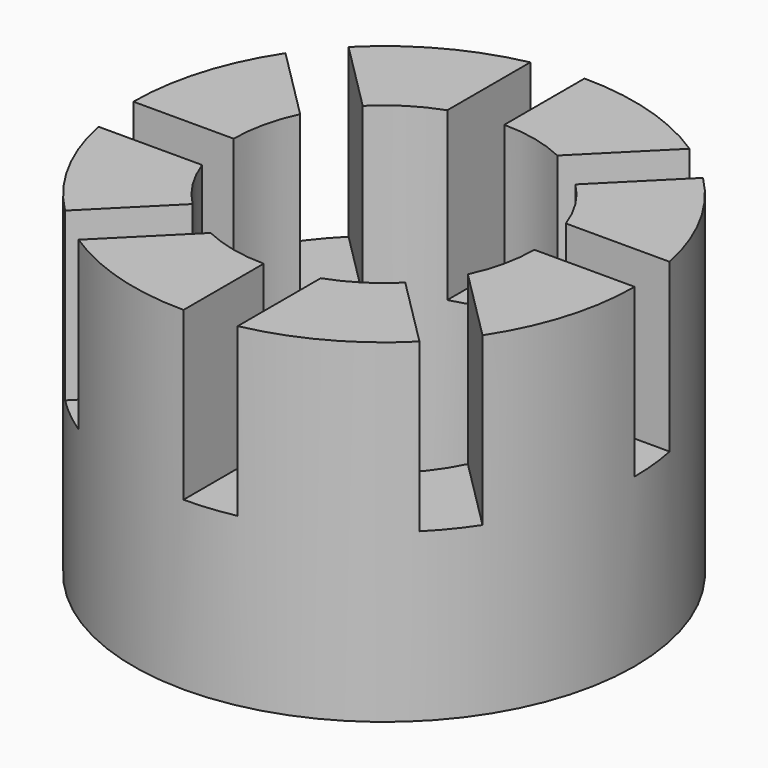
from build123d import *

# Parameters (mm, degrees)
BOX002_W          = 20
BOX002_H          = 3
BOX002_DEPTH      = 100
ARRAY001_COUNT    = 8
CYLINDER005_R     = 9
CYLINDER005_DEPTH = 20
CYLINDER004_R     = 15
CYLINDER004_DEPTH = 20


with BuildPart() as almenas:
    # Box002 → Box002 (new body)
    with BuildSketch(Plane(origin=(7, 0, 50), x_dir=(1, 0, 0), z_dir=(0, 0, 1))):
        with Locations((10, 1.5)):
            Rectangle(BOX002_W, BOX002_H)
    extrude(amount=BOX002_DEPTH)

    # Array001: Almenas ×8 about axis
    array001_axis = Axis((0, 0, 0), (0, 0, 1))


with BuildPart() as almenas_1:
    add(almenas.part)
    for i in range(1, ARRAY001_COUNT):
        add(almenas.part.rotate(array001_axis, i * 360 / ARRAY001_COUNT))


with BuildPart() as cilindro003:
    # Cylinder005 → Cylinder005 (new body)
    with BuildSketch(Plane.XY.offset(40)):
        Circle(CYLINDER005_R)
    extrude(amount=CYLINDER005_DEPTH)


with BuildPart() as parte_superior:
    # Cylinder004 → Cylinder004 (new body)
    with BuildSketch(Plane.XY.offset(40)):
        Circle(CYLINDER004_R)
    extrude(amount=CYLINDER004_DEPTH)

    # Cut002: cut Cilindro003
    add(cilindro003.part, mode=Mode.SUBTRACT)

    # Cut003: cut Almenas
    add(almenas_1.part, mode=Mode.SUBTRACT)


solid = parte_superior.part
